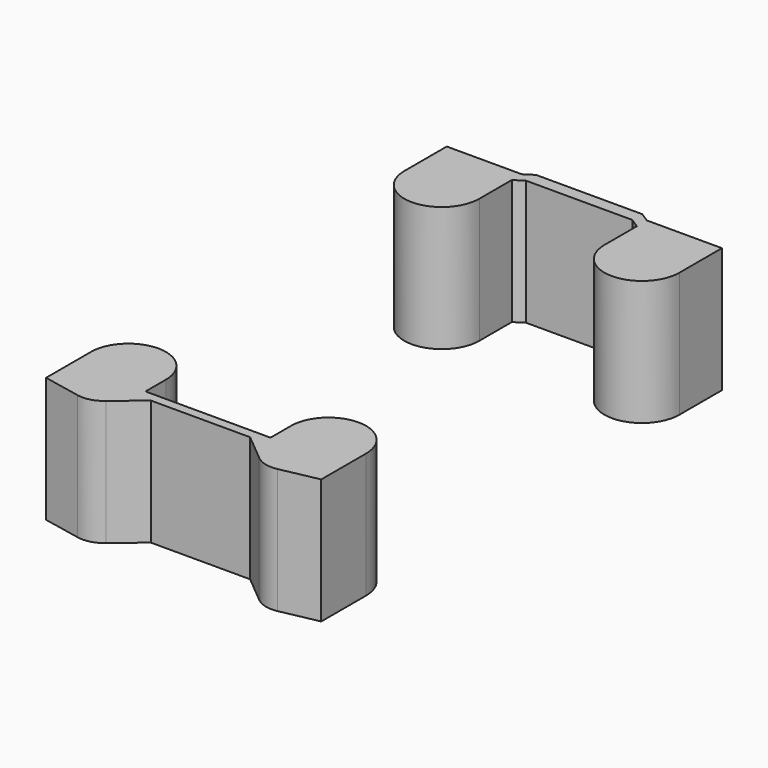
from build123d import *

# Parameters (mm, degrees)
F1_DEPTH = 20


with BuildPart() as f1:
    # F0 (on Top) → F1 (new body)
    with BuildSketch(Plane.XY):
        with BuildLine():
            Line((22, -39), (7.9348, -39))
            Line((7.9348, -39), (12.263496, -42.60762))
            ThreePointArc((12.263496, -42.60762), (14.009721, -43.527265), (15.982518, -43.583099))
            Line((15.982518, -43.583099), (22, -42.363748))
            Line((22, -42.363748), (22, -39))
        make_face()
        with BuildLine():
            Line((-22, -33.404537), (-22, -39))
            Line((-22, -39), (-7.9348, -39))
            Line((-7.9348, -39), (0, -39))
            Line((0, -39), (7.9348, -39))
            Line((7.9348, -39), (22, -39))
            Line((22, -39), (22, -33.404537))
            ThreePointArc((22, -33.404537), (16, -27.404537), (10, -33.404537))
            Line((10, -33.404537), (10, -37.5))
            Line((10, -37.5), (0, -37.5))
            Line((0, -37.5), (-10, -37.5))
            Line((-10, -37.5), (-10, -33.404537))
            ThreePointArc((-10, -33.404537), (-11.256584, -29.730302), (-14.5, -27.595062))
            ThreePointArc((-14.5, -27.595062), (-15.492855, -27.426008), (-16.5, -27.425406))
            ThreePointArc((-16.5, -27.425406), (-20.41588, -29.342517), (-22, -33.404537))
        make_face()
        with BuildLine():
            Line((-7.9348, -39), (-22, -39))
            Line((-22, -39), (-22, -42.363748))
            Line((-22, -42.363748), (-15.982518, -43.583099))
            ThreePointArc((-15.982518, -43.583099), (-14.009721, -43.527265), (-12.263496, -42.60762))
            Line((-12.263496, -42.60762), (-7.9348, -39))
        make_face()
        with BuildLine():
            Line((-22, 37.720796), (-22, 29.230934))
            ThreePointArc((-22, 29.230934), (-16, 23.230934), (-10, 29.230934))
            Line((-10, 29.230934), (-10, 35.720796))
            Line((-10, 35.720796), (-8.496368, 36.690091))
            Line((-8.496368, 36.690091), (8.496368, 36.690091))
            Line((8.496368, 36.690091), (10, 35.720796))
            Line((10, 35.720796), (10, 29.230934))
            ThreePointArc((10, 29.230934), (16, 23.230934), (22, 29.230934))
            Line((22, 29.230934), (22, 37.720796))
            Line((22, 37.720796), (10, 37.720796))
            Line((10, 37.720796), (8.496368, 38.690091))
            Line((8.496368, 38.690091), (0, 38.690091))
            Line((0, 38.690091), (-8.496368, 38.690091))
            Line((-8.496368, 38.690091), (-10, 37.720796))
            Line((-10, 37.720796), (-22, 37.720796))
        make_face()
        with BuildLine():
            Line((-22, 37.720796), (-22, 29.230934))
            ThreePointArc((-22, 29.230934), (-16, 23.230934), (-10, 29.230934))
            Line((-10, 29.230934), (-10, 35.720796))
            Line((-10, 35.720796), (-8.496368, 36.690091))
            Line((-8.496368, 36.690091), (8.496368, 36.690091))
            Line((8.496368, 36.690091), (10, 35.720796))
            Line((10, 35.720796), (10, 29.230934))
            ThreePointArc((10, 29.230934), (16, 23.230934), (22, 29.230934))
            Line((22, 29.230934), (22, 37.720796))
            Line((22, 37.720796), (10, 37.720796))
            Line((10, 37.720796), (8.496368, 38.690091))
            Line((8.496368, 38.690091), (0, 38.690091))
            Line((0, 38.690091), (-8.496368, 38.690091))
            Line((-8.496368, 38.690091), (-10, 37.720796))
            Line((-10, 37.720796), (-22, 37.720796))
        make_face()
    extrude(amount=F1_DEPTH)


solid = f1.part
